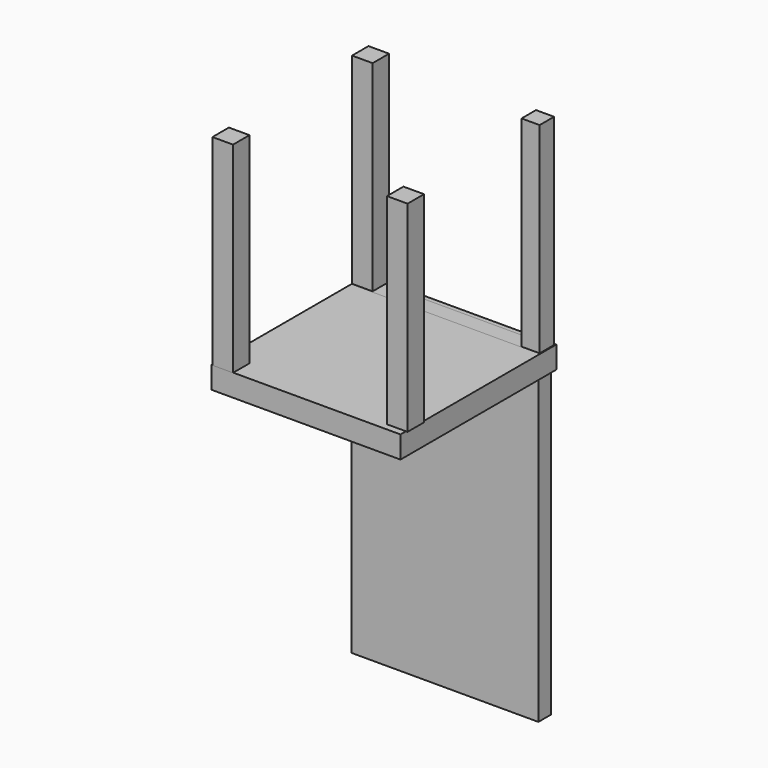
from build123d import *

# Parameters (mm, degrees)
F0_W     = 16.737432
F0_H     = 16.737432
F0_W_2   = 14.708657
F0_H_2   = 14.708657
F0_W_3   = 16.737431
F0_H_3   = 16.737431
F1_DEPTH = 163.576
F2_W     = 153.683335
F2_H     = 158.519522
F3_DEPTH = 18.034
F4_W     = 152.055375
F4_H     = 13.024777
F5_DEPTH = 264.16


with BuildPart() as f1:
    # F0 (on Top) → F1 (new body)
    with BuildSketch(Plane.XY):
        with Locations((-67.583725, 69.9929)):
            Rectangle(F0_W, F0_H)
        with Locations((69.612502, 68.724913)):
            Rectangle(F0_W_2, F0_H_2)
        with Locations((-66.822931, -73.036068)):
            Rectangle(F0_W_3, F0_H_3)
        with Locations((70.626889, -67.203328)):
            Rectangle(F0_W_3, F0_H)
        with Locations((-67.583725, 69.9929)):
            Rectangle(F0_W, F0_H)
    extrude(amount=F1_DEPTH)


with BuildPart() as f3:
    # F2 (on Top) → F3 (new body)
    with BuildSketch(Plane.XY):
        with Locations((0.85342, -1.860425)):
            Rectangle(F2_W, F2_H)
    extrude(amount=-F3_DEPTH)


with BuildPart() as f5:
    # F4 (on Top) → F5 (new body)
    with BuildSketch(Plane.XY):
        with Locations((0.391115, 67.295507)):
            Rectangle(F4_W, F4_H)
    extrude(amount=-F5_DEPTH)


solid = Compound([f1.part, f3.part, f5.part])
